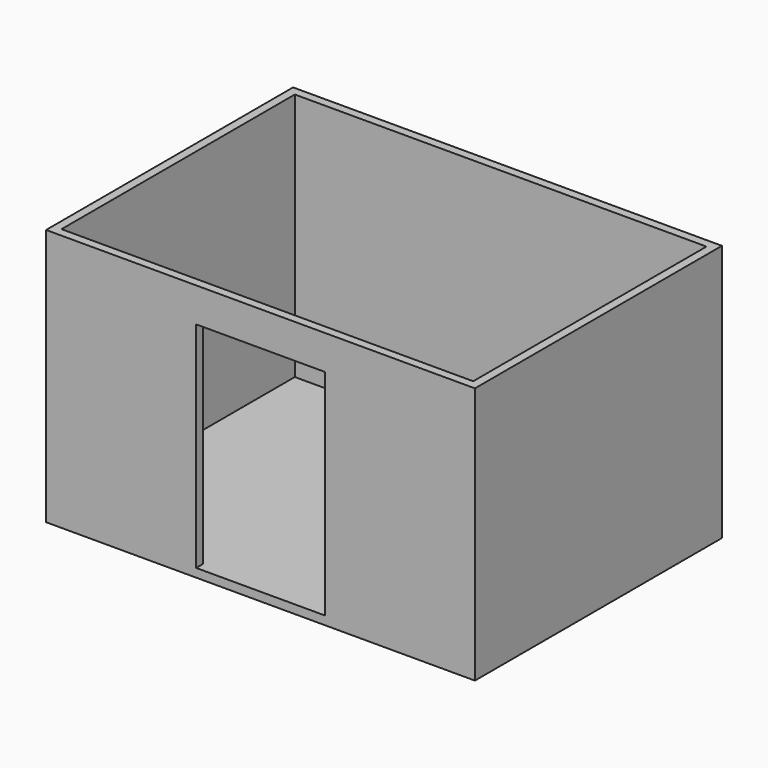
from build123d import *

# Parameters (mm, degrees)
SKETCH_W        = 250
SKETCH_H        = 180
PAD_DEPTH       = 150
SKETCH001_W     = 240
SKETCH001_H     = 170
POCKET_DEPTH    = 145
SKETCH002_W     = 75
SKETCH002_H     = 125
POCKET001_DEPTH = 5


with BuildPart() as part:
    # Sketch → Pad (new body)
    with BuildSketch(Plane.XY):
        with Locations((125, 90)):
            Rectangle(SKETCH_W, SKETCH_H)
    extrude(amount=PAD_DEPTH)

    # Sketch001 (on Face6 of Pad) → Pocket (cut)
    with BuildSketch(Plane.XY.offset(150)):
        with Locations((125, 90)):
            Rectangle(SKETCH001_W, SKETCH001_H)
    extrude(amount=-POCKET_DEPTH, mode=Mode.SUBTRACT)

    # Sketch002 (on Face6 of Pocket) → Pocket001 (cut)
    with BuildSketch(Plane.XZ):
        with Locations((125, 67.5)):
            Rectangle(SKETCH002_W, SKETCH002_H)
    extrude(amount=-POCKET001_DEPTH, mode=Mode.SUBTRACT)


solid = part.part
